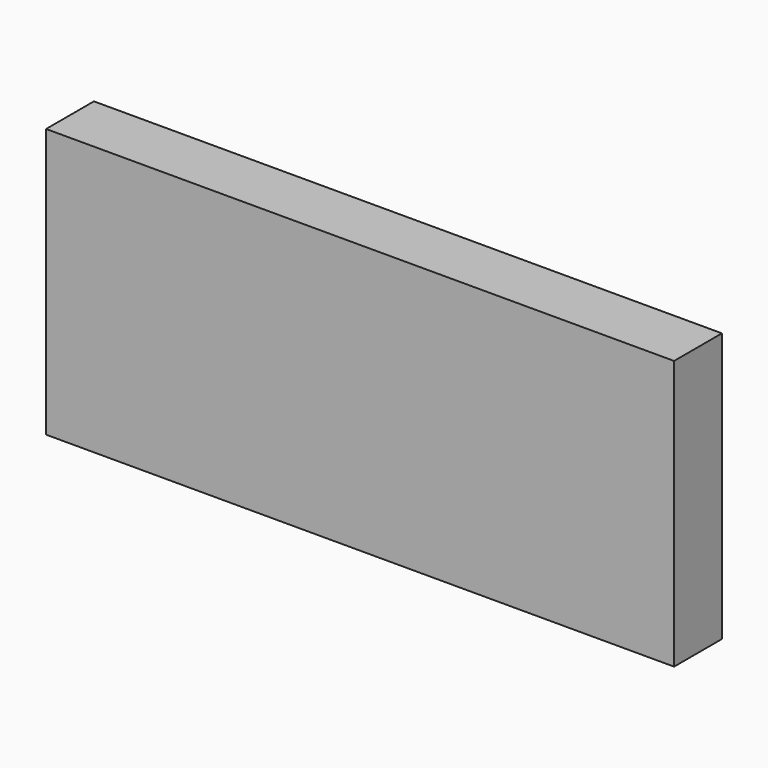
from build123d import *

# Parameters (mm, degrees)
F0_W     = 12
F0_H     = 54
F1_DEPTH = 150
F2_W     = 24
F2_H     = 54
F3_DEPTH = 25


with BuildPart() as f1:
    # F0 (on Right) → F1 (new body)
    with BuildSketch(Plane.YZ):
        with Locations((6, 27)):
            Rectangle(F0_W, F0_H)
    extrude(amount=F1_DEPTH)

    # F2 (on face) → F3 (cut)
    with BuildSketch(Plane.XZ):
        with Locations((138, 27)):
            Rectangle(F2_W, F2_H)
    extrude(amount=-F3_DEPTH, mode=Mode.SUBTRACT)


solid = f1.part
